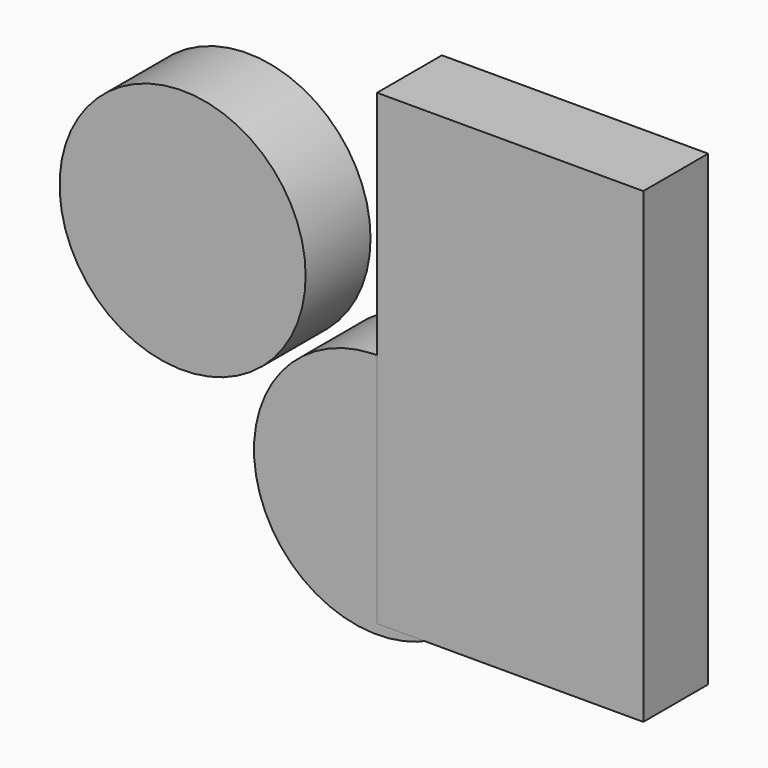
from build123d import *

# Parameters (mm, degrees)
F0_R     = 38.520309
F1_DEPTH = 25.4
F2_W     = 83.371088
F2_H     = 146.3264
F3_DEPTH = 25.4


with BuildPart() as f1:
    # F0 (on Front) → F1 (new body)
    with BuildSketch(Plane.XZ):
        with Locations((-60.872503, 53.117219)):
            Circle(F0_R)
        Circle(F0_R)
    extrude(amount=F1_DEPTH)


with BuildPart() as f3:
    # F2 (on Front) → F3 (new body)
    with BuildSketch(Plane.XZ):
        with Locations((41.685544, 37.692029)):
            Rectangle(F2_W, F2_H)
    extrude(amount=F3_DEPTH)


solid = Compound([f1.part, f3.part])
